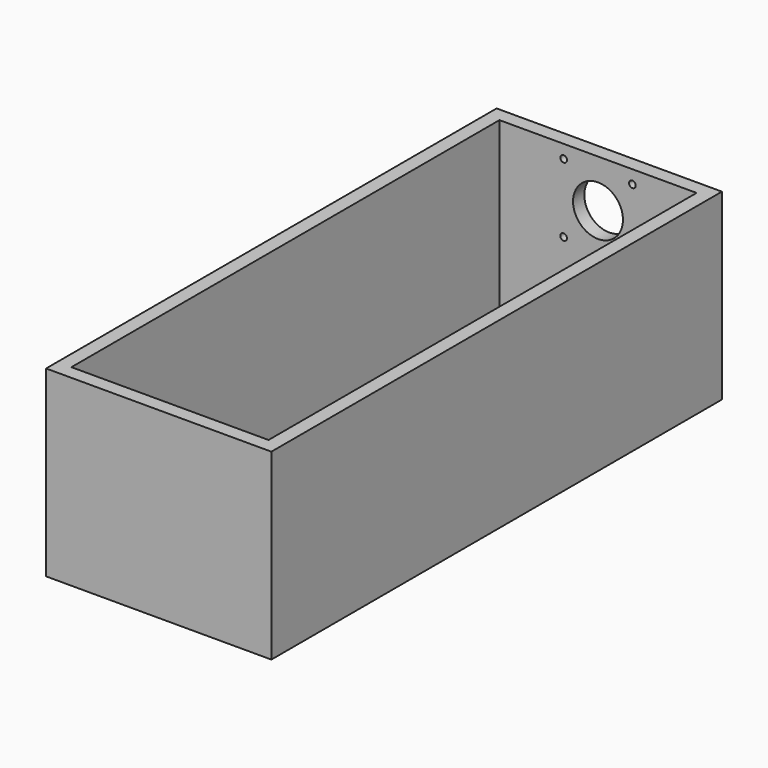
from build123d import *

# Parameters (mm, degrees)
F0_W     = 101.6
F0_H     = 254
F0_R     = 1.7272
F0_W_2   = 24
F0_H_2   = 12.254687
F1_DEPTH = 6.35
F2_W     = 101.6
F2_H     = 254
F2_W_2   = 88.9
F2_H_2   = 241.3
F3_DEPTH = 76.2
F4_R     = 1.5
F4_R_2   = 11.253
F5_DEPTH = 6.35
F6_DEPTH = 6.35


with BuildPart() as f1:
    # F0 (on Top) → F1 (new body)
    with BuildSketch(Plane.XY):
        with Locations((50.8, -127)):
            Rectangle(F0_W, F0_H)
        with Locations((10.31875, -250.03125)):
            Circle(F0_R, mode=Mode.SUBTRACT)
        with Locations((18.35, -235.387502)):
            Rectangle(F0_W_2, F0_H_2, mode=Mode.SUBTRACT)
        with Locations((10.31875, -220.743755)):
            Circle(F0_R, mode=Mode.SUBTRACT)
        with Locations((83.25, -235.387502)):
            Rectangle(F0_W_2, F0_H_2, mode=Mode.SUBTRACT)
        with Locations((91.28125, -250.03125)):
            Circle(F0_R, mode=Mode.SUBTRACT)
        with Locations((91.28125, -220.743755)):
            Circle(F0_R, mode=Mode.SUBTRACT)
        with Locations((10.31875, -33.256245)):
            Circle(F0_R, mode=Mode.SUBTRACT)
        with Locations((10.31875, -3.96875)):
            Circle(F0_R, mode=Mode.SUBTRACT)
        with Locations((18.35, -18.612497)):
            Rectangle(F0_W_2, F0_H_2, mode=Mode.SUBTRACT)
        with Locations((91.28125, -33.256245)):
            Circle(F0_R, mode=Mode.SUBTRACT)
        with Locations((83.25, -18.612497)):
            Rectangle(F0_W_2, F0_H_2, mode=Mode.SUBTRACT)
        with Locations((91.28125, -3.96875)):
            Circle(F0_R, mode=Mode.SUBTRACT)
    extrude(amount=F1_DEPTH)

    # F2 (on face) → F3 (join)
    with BuildSketch(Plane.XY.offset(6.35)):
        with Locations((50.8, -127)):
            Rectangle(F2_W, F2_H)
        with Locations((50.8, -127)):
            Rectangle(F2_W_2, F2_H_2, mode=Mode.SUBTRACT)
    extrude(amount=F3_DEPTH)

    # F4 (on face) → F5 (cut, through all)
    with BuildSketch(Plane(origin=(0, 0, 0), x_dir=(-1, 0, 0), z_dir=(0, 1, 0))):
        with Locations((-66.299994, 76.547002)):
            Circle(F4_R)
        with Locations((-35.300006, 76.547002)):
            Circle(F4_R)
        with Locations((-66.299994, 45.547013)):
            Circle(F4_R)
        with Locations((-50.8, 61.047008)):
            Circle(F4_R_2)
        with Locations((-35.300006, 45.547013)):
            Circle(F4_R)
    extrude(amount=-F5_DEPTH, mode=Mode.SUBTRACT)

    # F4 (on face) → F6 (cut, through all)
    with BuildSketch(Plane(origin=(0, 0, 0), x_dir=(-1, 0, 0), z_dir=(0, 1, 0))):
        with Locations((-66.299994, 76.547002)):
            Circle(F4_R)
        with Locations((-35.300006, 76.547002)):
            Circle(F4_R)
        with Locations((-66.299994, 45.547013)):
            Circle(F4_R)
        with Locations((-50.8, 61.047008)):
            Circle(F4_R_2)
        with Locations((-35.300006, 45.547013)):
            Circle(F4_R)
    extrude(amount=-F6_DEPTH, mode=Mode.SUBTRACT)


solid = f1.part
